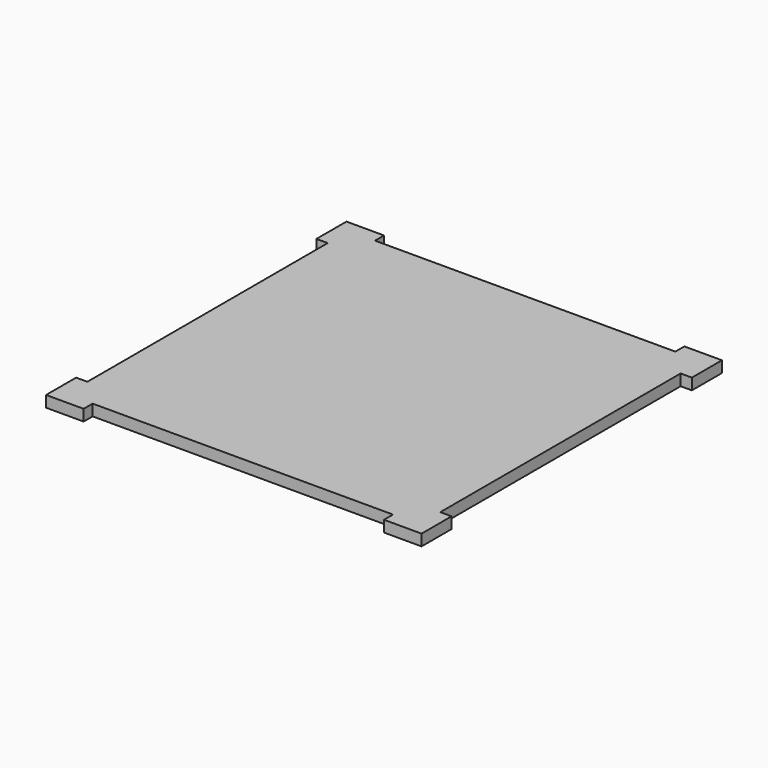
from build123d import *

# Parameters (mm, degrees)
F1_DEPTH = 3


with BuildPart() as f1:
    # F0 (on Top) → F1 (new body)
    with BuildSketch(Plane.XY):
        Polygon((0, 10), (0, 0), (10, 0), (10, 3), (90, 3), (90, 0), (100, 0), (100, 10), (97, 10), (97, 90), (100, 90), (100, 100), (90, 100), (90, 97), (10, 97), (10, 100), (0, 100), (0, 90), (3, 90), (3, 10), align=None)
    extrude(amount=F1_DEPTH)


solid = f1.part
